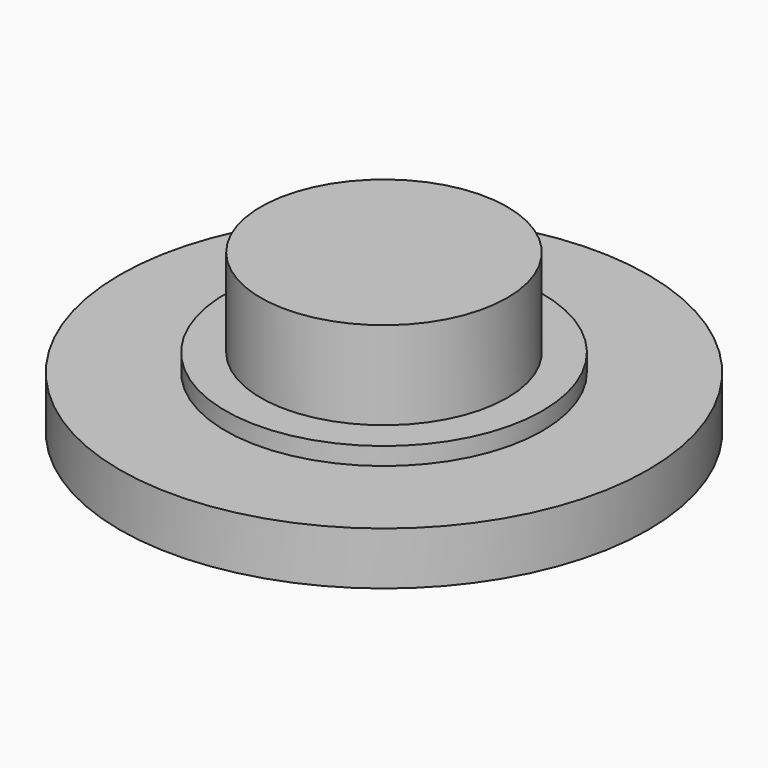
from build123d import *

# Parameters (mm, degrees)
F0_R     = 4.445
F1_DEPTH = 3.175
F0_R_2   = 5.715
F2_DEPTH = 0.635
F3_START = -0.635
F0_R_3   = 9.525
F3_DEPTH = 1.905


with BuildPart() as f1:
    # F0 (on Top) → F1 (new body)
    with BuildSketch(Plane.XY):
        Circle(F0_R)
    extrude(amount=F1_DEPTH)

    # F0 (on Top) → F2 (join)
    with BuildSketch(Plane.XY):
        Circle(F0_R_2)
        Circle(F0_R, mode=Mode.SUBTRACT)
        Circle(F0_R)
    extrude(amount=-F2_DEPTH)

    # F0 (on Top) → F3 (join)
    with BuildSketch(Plane.XY.offset(F3_START)):
        Circle(F0_R_3)
        Circle(F0_R_2, mode=Mode.SUBTRACT)
        Circle(F0_R_2)
        Circle(F0_R, mode=Mode.SUBTRACT)
        Circle(F0_R)
    extrude(amount=-F3_DEPTH)


solid = f1.part
